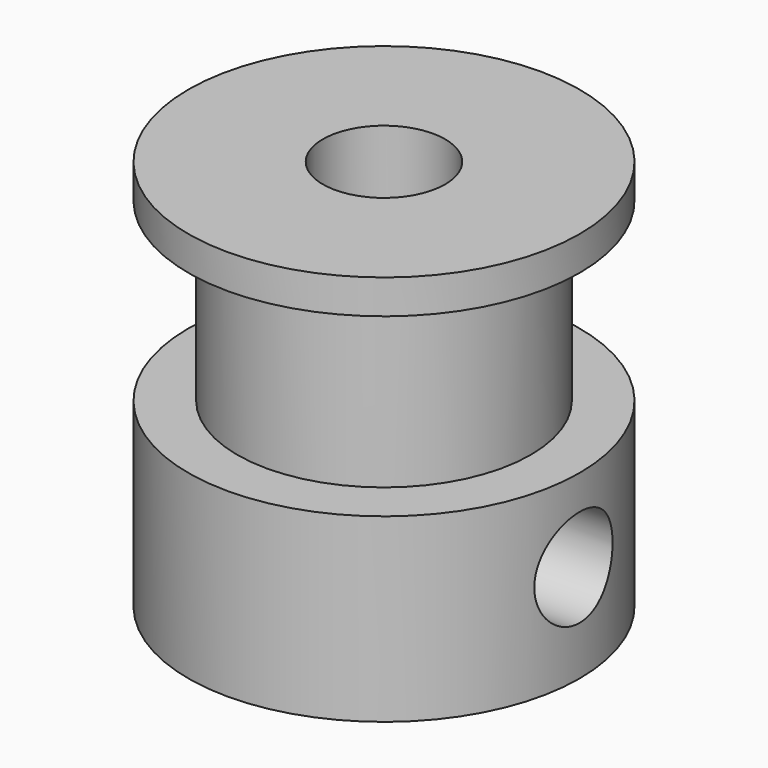
from build123d import *

# Parameters (mm, degrees)
F2_R     = 2
F3_DEPTH = 25
F4_R     = 2
F5_DEPTH = 25


with BuildPart() as f1:
    # F0 (on Front) → F1 (revolve)
    with BuildSketch(Plane.XZ):
        Polygon((8, 8.6), (2.5, 8.6), (2.5, -7.4), (8, -7.4), (8, 0), (6, 0), (6, 7.2), (8, 7.2), align=None)
    revolve(axis=Axis((0, 0, 2.562595), (0, 0, -1)))

    # F2 (on Right) → F3 (cut)
    with BuildSketch(Plane.YZ):
        with Locations((0, -3.4)):
            Circle(F2_R)
    extrude(amount=F3_DEPTH, mode=Mode.SUBTRACT)

    # F4 (on Front) → F5 (cut)
    with BuildSketch(Plane.XZ):
        with Locations((0, -3.4)):
            Circle(F4_R)
    extrude(amount=-F5_DEPTH, mode=Mode.SUBTRACT)


solid = f1.part
